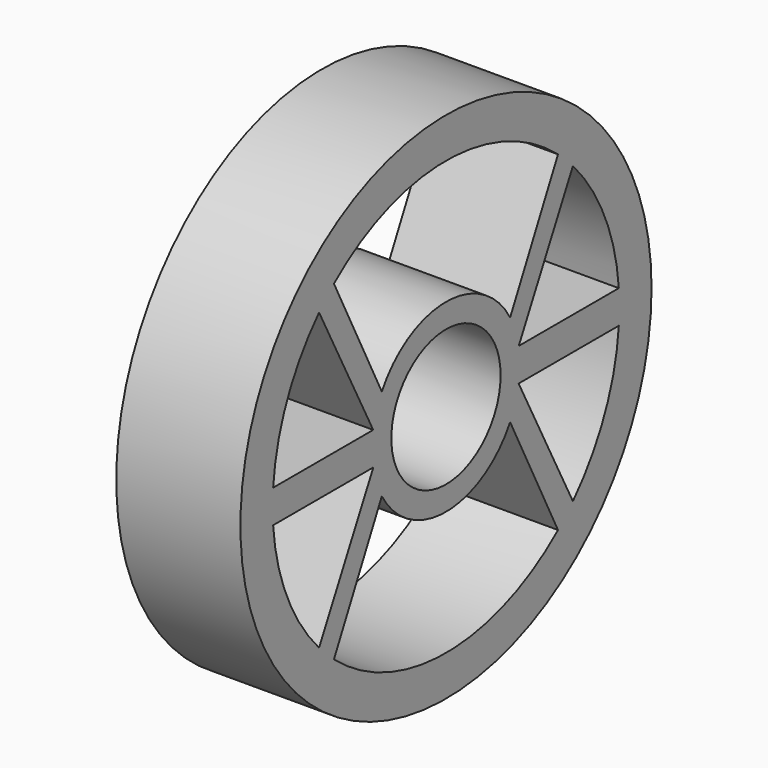
from build123d import *

# Parameters (mm, degrees)
F0_R     = 2.069694
F0_R_2   = 0.55
F1_DEPTH = 1


with BuildPart() as f1:
    # F0 (on Right) → F1 (new body)
    with BuildSketch(Plane.YZ):
        Circle(F0_R)
        with BuildLine():
            Line((-1.740332, -0.131992), (-0.732975, -0.131992))
            ThreePointArc((-0.732975, -0.131992), (-0.732781, -0.133062), (-0.732586, -0.134133))
            Line((-0.732586, -0.134133), (-1.277924, -1.188734))
            ThreePointArc((-1.277924, -1.188734), (-1.598951, -0.699668), (-1.740332, -0.131992))
        make_face(mode=Mode.SUBTRACT)
        with BuildLine():
            Line((-1.127943, -1.331888), (-0.645926, -0.370746))
            ThreePointArc((-0.645926, -0.370746), (0, -0.744764), (0.645926, -0.370746))
            Line((0.645926, -0.370746), (1.127943, -1.331888))
            ThreePointArc((1.127943, -1.331888), (0, -1.745331), (-1.127943, -1.331888))
        make_face(mode=Mode.SUBTRACT)
        with BuildLine():
            ThreePointArc((0.732586, -0.134133), (0.732781, -0.133062), (0.732975, -0.131992))
            Line((0.732975, -0.131992), (1.740332, -0.131992))
            ThreePointArc((1.740332, -0.131992), (1.598951, -0.699668), (1.277924, -1.188734))
            Line((1.277924, -1.188734), (0.732586, -0.134133))
        make_face(mode=Mode.SUBTRACT)
        with BuildLine():
            ThreePointArc((-1.740169, 0.134133), (-1.59852, 0.700651), (-1.277924, 1.188734))
            Line((-1.277924, 1.188734), (-0.732586, 0.134133))
            Line((-0.732586, 0.134133), (-1.740169, 0.134133))
        make_face(mode=Mode.SUBTRACT)
        Circle(F0_R_2, mode=Mode.SUBTRACT)
        with BuildLine():
            Line((1.740169, 0.134133), (0.732586, 0.134133))
            Line((0.732586, 0.134133), (1.277924, 1.188734))
            ThreePointArc((1.277924, 1.188734), (1.59852, 0.700651), (1.740169, 0.134133))
        make_face(mode=Mode.SUBTRACT)
        with BuildLine():
            Line((1.127943, 1.331888), (0.645926, 0.370746))
            ThreePointArc((0.645926, 0.370746), (0, 0.744764), (-0.645926, 0.370746))
            Line((-0.645926, 0.370746), (-1.127943, 1.331888))
            ThreePointArc((-1.127943, 1.331888), (0, 1.745331), (1.127943, 1.331888))
        make_face(mode=Mode.SUBTRACT)
    extrude(amount=F1_DEPTH)


solid = f1.part
